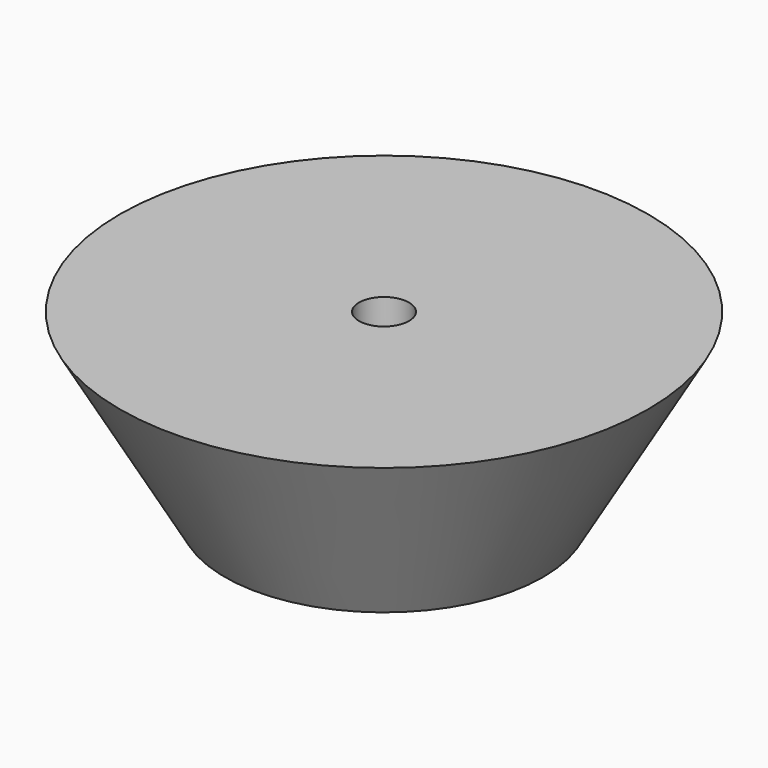
from build123d import *

# Parameters (mm, degrees)
F0_R     = 7
F1_DEPTH = 8
F1_TAPER = -30
F2_R     = 6
F3_DEPTH = 3
F4_R     = 1.1
F5_DEPTH = 25


with BuildPart() as f1:
    # F0 (on Top) → F1 (new body)
    with BuildSketch(Plane.XY):
        Circle(F0_R)
    extrude(amount=F1_DEPTH, taper=F1_TAPER)

    # F2 (on face) → F3 (cut)
    with BuildSketch(Plane(origin=(0, 0, 0), x_dir=(1, 0, 0), z_dir=(0, 0, -1))):
        Circle(F2_R)
    extrude(amount=-F3_DEPTH, mode=Mode.SUBTRACT)

    # F4 (on face) → F5 (cut)
    with BuildSketch(Plane.XY.offset(8)):
        Circle(F4_R)
    extrude(amount=-F5_DEPTH, mode=Mode.SUBTRACT)


solid = f1.part
